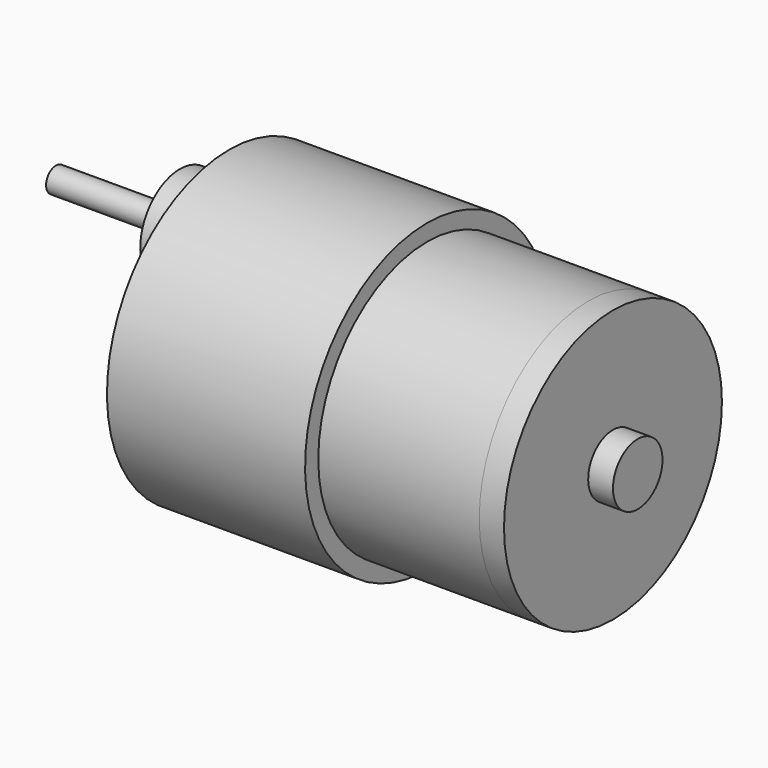
from build123d import *

# Parameters (mm, degrees)
F0_W  = 24
F0_H  = 18.5
F2_W  = 19.5
F2_H  = 16.5
F4_W  = 3
F4_H  = 16.5
F6_W  = 3
F6_H  = 3.75
F8_W  = 6
F8_H  = 6
F10_W = 15
F10_H = 1.5


with BuildPart() as f1:
    # F0 (on Front) → F1 (revolve)
    with BuildSketch(Plane.XZ):
        with Locations((-12, 9.25)):
            Rectangle(F0_W, F0_H)
    revolve(axis=Axis((-10.174999, 0, 0), (1, 0, 0)))

    # F2 (on Front) → F3 (revolve)
    with BuildSketch(Plane.XZ):
        with Locations((9.75, 8.25)):
            Rectangle(F2_W, F2_H)
    revolve(axis=Axis((4.448437, 0, 0), (1, 0, 0)))

    # F4 (on Front) → F5 (revolve)
    with BuildSketch(Plane.XZ):
        with Locations((21, 8.25)):
            Rectangle(F4_W, F4_H)
    revolve(axis=Axis((22.131725, 0, 0), (-1, 0, 0)))

    # F6 (on Front) → F7 (revolve)
    with BuildSketch(Plane.XZ):
        with Locations((24, 1.875)):
            Rectangle(F6_W, F6_H)
    revolve(axis=Axis((1.009684, 0, 0), (1, 0, 0)))

    # F8 (on Front) → F9 (revolve)
    with BuildSketch(Plane.XZ):
        with Locations((-26.971126, 11.5)):
            Rectangle(F8_W, F8_H)
    revolve(axis=Axis((-6.492025, 0, 8.5), (1, 0, 0)))


with BuildPart() as f11:
    # F10 (on Front) → F11 (revolve)
    with BuildSketch(Plane.XZ):
        with Locations((-37.476428, 9.25)):
            Rectangle(F10_W, F10_H)
    revolve(axis=Axis((-12.539559, 0, 8.5), (1, 0, 0)))


solid = Compound([f1.part, f11.part])
